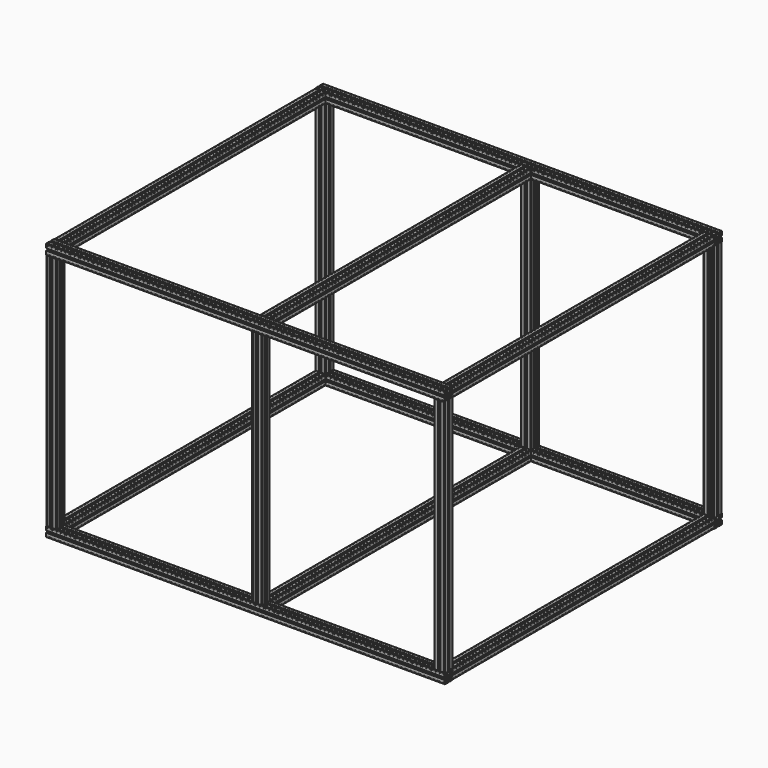
from build123d import *

# Parameters (mm, degrees)
F1_DEPTH  = 770
F7_DEPTH  = 630
F14_DEPTH = 460


with BuildPart() as f1:
    # F0 (on Right) → F1 (new body)
    with BuildSketch(Plane.YZ):
        Polygon((26.443125, -18.825), (25.693125, -18.825), (25.693125, -19.975), (26.376577, -19.975), (27.343125, -20.941548), (27.343125, -21.625), (28.493125, -21.625), (28.493125, -20.875), (28.693125, -20.875), (28.693125, -19.625), (27.693125, -18.625), (26.443125, -18.625), align=None)
        Polygon((25.693125, -19.975), (25.693125, -18.825), (24.943125, -18.825), (24.943125, -18.625), (20.843125, -18.625), (20.843125, -20.125), (22.843125, -20.125), (22.843125, -21.625), (24.043125, -21.625), (24.043125, -20.941548), (25.009673, -19.975), align=None)
        Polygon((26.376577, -23.275), (25.693125, -23.275), (25.693125, -24.475), (27.193125, -24.475), (27.193125, -26.475), (28.693125, -26.475), (28.693125, -22.375), (28.493125, -22.375), (28.493125, -21.625), (27.343125, -21.625), (27.343125, -22.308452), align=None)
        with BuildLine():
            Line((25.693125, -24.475), (25.693125, -23.275))
            Line((25.693125, -23.275), (25.009673, -23.275))
            Line((25.009673, -23.275), (24.043125, -22.308452))
            Line((24.043125, -22.308452), (24.043125, -21.625))
            Line((24.043125, -21.625), (22.843125, -21.625))
            Line((22.843125, -21.625), (22.843125, -24.125))
            Line((22.843125, -24.125), (18.693125, -24.9362781955))
            Line((18.693125, -24.9362781955), (18.693125, -27.025))
            ThreePointArc((18.693125, -27.025), (19.8244958499, -27.4936291501), (20.293125, -28.625))
            Line((20.293125, -28.625), (22.3818468045, -28.625))
            Line((22.3818468045, -28.625), (21.893125, -26.125))
            Line((21.893125, -26.125), (23.193125, -26.125))
            Line((23.193125, -26.125), (23.193125, -24.475))
            Line((23.193125, -24.475), (25.693125, -24.475))
        make_face()
        with BuildLine():
            Line((18.693125, -27.025), (18.693125, -24.9362781955))
            Line((18.693125, -24.9362781955), (16.193125, -25.425))
            Line((16.193125, -25.425), (16.193125, -24.125))
            Line((16.193125, -24.125), (14.543125, -24.125))
            Line((14.543125, -24.125), (14.543125, -21.625))
            Line((14.543125, -21.625), (13.343125, -21.625))
            Line((13.343125, -21.625), (13.343125, -22.308452))
            Line((13.343125, -22.308452), (12.376577, -23.275))
            Line((12.376577, -23.275), (11.693125, -23.275))
            Line((11.693125, -23.275), (11.693125, -24.475))
            Line((11.693125, -24.475), (14.193125, -24.475))
            Line((14.193125, -24.475), (15.0044031955, -28.625))
            Line((15.0044031955, -28.625), (17.093125, -28.625))
            ThreePointArc((17.093125, -28.625), (17.5617541501, -27.4936291501), (18.693125, -27.025))
        make_face()
        with BuildLine():
            Line((23.193125, -32.775), (22.3818468045, -28.625))
            Line((22.3818468045, -28.625), (20.293125, -28.625))
            ThreePointArc((20.293125, -28.625), (19.8244958499, -29.7563708499), (18.693125, -30.225))
            Line((18.693125, -30.225), (18.693125, -32.3137218045))
            Line((18.693125, -32.3137218045), (21.193125, -31.825))
            Line((21.193125, -31.825), (21.193125, -33.125))
            Line((21.193125, -33.125), (22.843125, -33.125))
            Line((22.843125, -33.125), (22.843125, -35.625))
            Line((22.843125, -35.625), (24.043125, -35.625))
            Line((24.043125, -35.625), (24.043125, -34.941548))
            Line((24.043125, -34.941548), (25.009673, -33.975))
            Line((25.009673, -33.975), (25.693125, -33.975))
            Line((25.693125, -33.975), (25.693125, -32.775))
            Line((25.693125, -32.775), (23.193125, -32.775))
        make_face()
        with BuildLine():
            ThreePointArc((18.693125, -30.225), (17.5617541501, -29.7563708499), (17.093125, -28.625))
            Line((17.093125, -28.625), (15.0044031955, -28.625))
            Line((15.0044031955, -28.625), (15.493125, -31.125))
            Line((15.493125, -31.125), (14.193125, -31.125))
            Line((14.193125, -31.125), (14.193125, -32.775))
            Line((14.193125, -32.775), (11.693125, -32.775))
            Line((11.693125, -32.775), (11.693125, -33.975))
            Line((11.693125, -33.975), (12.376577, -33.975))
            Line((12.376577, -33.975), (13.343125, -34.941548))
            Line((13.343125, -34.941548), (13.343125, -35.625))
            Line((13.343125, -35.625), (14.543125, -35.625))
            Line((14.543125, -35.625), (14.543125, -33.125))
            Line((14.543125, -33.125), (18.693125, -32.3137218045))
            Line((18.693125, -32.3137218045), (18.693125, -30.225))
        make_face()
        Polygon((27.193125, -32.775), (25.693125, -32.775), (25.693125, -33.975), (26.376577, -33.975), (27.343125, -34.941548), (27.343125, -35.625), (28.493125, -35.625), (28.493125, -34.875), (28.693125, -34.875), (28.693125, -30.775), (27.193125, -30.775), align=None)
        Polygon((13.343125, -21.625), (14.543125, -21.625), (14.543125, -20.125), (16.543125, -20.125), (16.543125, -18.625), (12.443125, -18.625), (12.443125, -18.825), (11.693125, -18.825), (11.693125, -19.975), (12.376577, -19.975), (13.343125, -20.941548), align=None)
        Polygon((10.193125, -24.475), (11.693125, -24.475), (11.693125, -23.275), (11.009673, -23.275), (10.043125, -22.308452), (10.043125, -21.625), (8.893125, -21.625), (8.893125, -22.375), (8.693125, -22.375), (8.693125, -26.475), (10.193125, -26.475), align=None)
        Polygon((14.543125, -37.125), (14.543125, -35.625), (13.343125, -35.625), (13.343125, -36.308452), (12.376577, -37.275), (11.693125, -37.275), (11.693125, -38.425), (12.443125, -38.425), (12.443125, -38.625), (16.543125, -38.625), (16.543125, -37.125), align=None)
        Polygon((26.376577, -37.275), (25.693125, -37.275), (25.693125, -38.425), (26.443125, -38.425), (26.443125, -38.625), (27.693125, -38.625), (28.693125, -37.625), (28.693125, -36.375), (28.493125, -36.375), (28.493125, -35.625), (27.343125, -35.625), (27.343125, -36.308452), align=None)
        Polygon((25.693125, -38.425), (25.693125, -37.275), (25.009673, -37.275), (24.043125, -36.308452), (24.043125, -35.625), (22.843125, -35.625), (22.843125, -37.125), (20.843125, -37.125), (20.843125, -38.625), (24.943125, -38.625), (24.943125, -38.425), align=None)
        Polygon((11.693125, -33.975), (11.693125, -32.775), (10.193125, -32.775), (10.193125, -30.775), (8.693125, -30.775), (8.693125, -34.875), (8.893125, -34.875), (8.893125, -35.625), (10.043125, -35.625), (10.043125, -34.941548), (11.009673, -33.975), align=None)
        Polygon((11.009673, -19.975), (11.693125, -19.975), (11.693125, -18.825), (10.943125, -18.825), (10.943125, -18.625), (9.693125, -18.625), (8.693125, -19.625), (8.693125, -20.875), (8.893125, -20.875), (8.893125, -21.625), (10.043125, -21.625), (10.043125, -20.941548), align=None)
        Polygon((11.693125, -38.425), (11.693125, -37.275), (11.009673, -37.275), (10.043125, -36.308452), (10.043125, -35.625), (8.893125, -35.625), (8.893125, -36.375), (8.693125, -36.375), (8.693125, -37.625), (9.693125, -38.625), (10.943125, -38.625), (10.943125, -38.425), align=None)
    extrude(amount=-F1_DEPTH)


with BuildPart() as f2_1:
    # F2: copy of F1
    add(f1.part.moved(Location((0, 650, 0))))


with BuildPart() as f3_1:
    # F3: copy of F1
    add(f1.part.moved(Location((0, 0, 480))))


with BuildPart() as f3_2:
    # F3: copy of F2_1
    add(f2_1.part.moved(Location((0, 0, 480))))


with BuildPart() as f7:
    # F6 (on offset) → F7 (new body)
    with BuildSketch(Plane.XZ.offset(-658.7)):
        with BuildLine():
            Line((23.193125, -32.775), (22.3818468045, -28.625))
            Line((22.3818468045, -28.625), (20.293125, -28.625))
            ThreePointArc((20.293125, -28.625), (19.8244958499, -29.7563708499), (18.693125, -30.225))
            Line((18.693125, -30.225), (18.693125, -32.3137218045))
            Line((18.693125, -32.3137218045), (21.193125, -31.825))
            Line((21.193125, -31.825), (21.193125, -33.125))
            Line((21.193125, -33.125), (22.843125, -33.125))
            Line((22.843125, -33.125), (22.843125, -35.625))
            Line((22.843125, -35.625), (24.043125, -35.625))
            Line((24.043125, -35.625), (24.043125, -34.941548))
            Line((24.043125, -34.941548), (25.009673, -33.975))
            Line((25.009673, -33.975), (25.693125, -33.975))
            Line((25.693125, -33.975), (25.693125, -32.775))
            Line((25.693125, -32.775), (23.193125, -32.775))
        make_face()
        with BuildLine():
            Line((18.693125, -27.025), (18.693125, -24.9362781955))
            Line((18.693125, -24.9362781955), (16.193125, -25.425))
            Line((16.193125, -25.425), (16.193125, -24.125))
            Line((16.193125, -24.125), (14.543125, -24.125))
            Line((14.543125, -24.125), (14.543125, -21.625))
            Line((14.543125, -21.625), (13.343125, -21.625))
            Line((13.343125, -21.625), (13.343125, -22.308452))
            Line((13.343125, -22.308452), (12.376577, -23.275))
            Line((12.376577, -23.275), (11.693125, -23.275))
            Line((11.693125, -23.275), (11.693125, -24.475))
            Line((11.693125, -24.475), (14.193125, -24.475))
            Line((14.193125, -24.475), (15.0044031955, -28.625))
            Line((15.0044031955, -28.625), (17.093125, -28.625))
            ThreePointArc((17.093125, -28.625), (17.5617541501, -27.4936291501), (18.693125, -27.025))
        make_face()
        with BuildLine():
            ThreePointArc((18.693125, -30.225), (17.5617541501, -29.7563708499), (17.093125, -28.625))
            Line((17.093125, -28.625), (15.0044031955, -28.625))
            Line((15.0044031955, -28.625), (15.493125, -31.125))
            Line((15.493125, -31.125), (14.193125, -31.125))
            Line((14.193125, -31.125), (14.193125, -32.775))
            Line((14.193125, -32.775), (11.693125, -32.775))
            Line((11.693125, -32.775), (11.693125, -33.975))
            Line((11.693125, -33.975), (12.376577, -33.975))
            Line((12.376577, -33.975), (13.343125, -34.941548))
            Line((13.343125, -34.941548), (13.343125, -35.625))
            Line((13.343125, -35.625), (14.543125, -35.625))
            Line((14.543125, -35.625), (14.543125, -33.125))
            Line((14.543125, -33.125), (18.693125, -32.3137218045))
            Line((18.693125, -32.3137218045), (18.693125, -30.225))
        make_face()
        with BuildLine():
            Line((25.693125, -24.475), (25.693125, -23.275))
            Line((25.693125, -23.275), (25.009673, -23.275))
            Line((25.009673, -23.275), (24.043125, -22.308452))
            Line((24.043125, -22.308452), (24.043125, -21.625))
            Line((24.043125, -21.625), (22.843125, -21.625))
            Line((22.843125, -21.625), (22.843125, -24.125))
            Line((22.843125, -24.125), (18.693125, -24.9362781955))
            Line((18.693125, -24.9362781955), (18.693125, -27.025))
            ThreePointArc((18.693125, -27.025), (19.8244958499, -27.4936291501), (20.293125, -28.625))
            Line((20.293125, -28.625), (22.3818468045, -28.625))
            Line((22.3818468045, -28.625), (21.893125, -26.125))
            Line((21.893125, -26.125), (23.193125, -26.125))
            Line((23.193125, -26.125), (23.193125, -24.475))
            Line((23.193125, -24.475), (25.693125, -24.475))
        make_face()
        with BuildLine():
            Line((18.693125, -30.225), (18.693125, -28.625))
            Line((18.693125, -28.625), (17.093125, -28.625))
            ThreePointArc((17.093125, -28.625), (17.5617541501, -29.7563708499), (18.693125, -30.225))
        make_face()
        with BuildLine():
            ThreePointArc((20.293125, -28.625), (19.8244958499, -27.4936291501), (18.693125, -27.025))
            Line((18.693125, -27.025), (18.693125, -28.625))
            Line((18.693125, -28.625), (20.293125, -28.625))
        make_face()
        with BuildLine():
            Line((18.693125, -28.625), (18.693125, -27.025))
            ThreePointArc((18.693125, -27.025), (17.5617541501, -27.4936291501), (17.093125, -28.625))
            Line((17.093125, -28.625), (18.693125, -28.625))
        make_face()
        with BuildLine():
            Line((20.293125, -28.625), (18.693125, -28.625))
            Line((18.693125, -28.625), (18.693125, -30.225))
            ThreePointArc((18.693125, -30.225), (19.8244958499, -29.7563708499), (20.293125, -28.625))
        make_face()
        Polygon((13.343125, -21.625), (14.543125, -21.625), (14.543125, -20.125), (16.543125, -20.125), (16.543125, -18.625), (12.443125, -18.625), (12.443125, -18.825), (11.693125, -18.825), (11.693125, -19.975), (12.376577, -19.975), (13.343125, -20.941548), align=None)
        Polygon((25.693125, -19.975), (25.693125, -18.825), (24.943125, -18.825), (24.943125, -18.625), (20.843125, -18.625), (20.843125, -20.125), (22.843125, -20.125), (22.843125, -21.625), (24.043125, -21.625), (24.043125, -20.941548), (25.009673, -19.975), align=None)
        Polygon((11.009673, -23.275), (11.693125, -23.275), (11.693125, -21.625), (10.043125, -21.625), (10.043125, -22.308452), align=None)
        Polygon((11.693125, -33.975), (11.693125, -32.775), (10.193125, -32.775), (10.193125, -30.775), (8.693125, -30.775), (8.693125, -34.875), (8.893125, -34.875), (8.893125, -35.625), (10.043125, -35.625), (10.043125, -34.941548), (11.009673, -33.975), align=None)
        Polygon((10.193125, -24.475), (11.693125, -24.475), (11.693125, -23.275), (11.009673, -23.275), (10.043125, -22.308452), (10.043125, -21.625), (8.893125, -21.625), (8.893125, -22.375), (8.693125, -22.375), (8.693125, -26.475), (10.193125, -26.475), align=None)
        Polygon((14.543125, -37.125), (14.543125, -35.625), (13.343125, -35.625), (13.343125, -36.308452), (12.376577, -37.275), (11.693125, -37.275), (11.693125, -38.425), (12.443125, -38.425), (12.443125, -38.625), (16.543125, -38.625), (16.543125, -37.125), align=None)
        Polygon((27.193125, -32.775), (25.693125, -32.775), (25.693125, -33.975), (26.376577, -33.975), (27.343125, -34.941548), (27.343125, -35.625), (28.493125, -35.625), (28.493125, -34.875), (28.693125, -34.875), (28.693125, -30.775), (27.193125, -30.775), align=None)
        Polygon((25.693125, -21.625), (25.693125, -19.975), (25.009673, -19.975), (24.043125, -20.941548), (24.043125, -21.625), align=None)
        Polygon((26.376577, -19.975), (25.693125, -19.975), (25.693125, -21.625), (27.343125, -21.625), (27.343125, -20.941548), align=None)
        Polygon((25.693125, -38.425), (25.693125, -37.275), (25.009673, -37.275), (24.043125, -36.308452), (24.043125, -35.625), (22.843125, -35.625), (22.843125, -37.125), (20.843125, -37.125), (20.843125, -38.625), (24.943125, -38.625), (24.943125, -38.425), align=None)
        Polygon((11.693125, -35.625), (13.343125, -35.625), (13.343125, -34.941548), (12.376577, -33.975), (11.693125, -33.975), align=None)
        Polygon((10.043125, -21.625), (11.693125, -21.625), (11.693125, -19.975), (11.009673, -19.975), (10.043125, -20.941548), align=None)
        Polygon((13.343125, -22.308452), (13.343125, -21.625), (11.693125, -21.625), (11.693125, -23.275), (12.376577, -23.275), align=None)
        Polygon((11.009673, -19.975), (11.693125, -19.975), (11.693125, -18.825), (10.943125, -18.825), (10.943125, -18.625), (9.693125, -18.625), (8.693125, -19.625), (8.693125, -20.875), (8.893125, -20.875), (8.893125, -21.625), (10.043125, -21.625), (10.043125, -20.941548), align=None)
        Polygon((11.693125, -21.625), (13.343125, -21.625), (13.343125, -20.941548), (12.376577, -19.975), (11.693125, -19.975), align=None)
        Polygon((25.693125, -23.275), (25.693125, -21.625), (24.043125, -21.625), (24.043125, -22.308452), (25.009673, -23.275), align=None)
        Polygon((27.343125, -21.625), (25.693125, -21.625), (25.693125, -23.275), (26.376577, -23.275), (27.343125, -22.308452), align=None)
        Polygon((26.376577, -23.275), (25.693125, -23.275), (25.693125, -24.475), (27.193125, -24.475), (27.193125, -26.475), (28.693125, -26.475), (28.693125, -22.375), (28.493125, -22.375), (28.493125, -21.625), (27.343125, -21.625), (27.343125, -22.308452), align=None)
        Polygon((25.693125, -37.275), (25.693125, -35.625), (24.043125, -35.625), (24.043125, -36.308452), (25.009673, -37.275), align=None)
        Polygon((27.343125, -35.625), (25.693125, -35.625), (25.693125, -37.275), (26.376577, -37.275), (27.343125, -36.308452), align=None)
        Polygon((25.693125, -35.625), (25.693125, -33.975), (25.009673, -33.975), (24.043125, -34.941548), (24.043125, -35.625), align=None)
        Polygon((26.376577, -33.975), (25.693125, -33.975), (25.693125, -35.625), (27.343125, -35.625), (27.343125, -34.941548), align=None)
        Polygon((11.693125, -38.425), (11.693125, -37.275), (11.009673, -37.275), (10.043125, -36.308452), (10.043125, -35.625), (8.893125, -35.625), (8.893125, -36.375), (8.693125, -36.375), (8.693125, -37.625), (9.693125, -38.625), (10.943125, -38.625), (10.943125, -38.425), align=None)
        Polygon((13.343125, -36.308452), (13.343125, -35.625), (11.693125, -35.625), (11.693125, -37.275), (12.376577, -37.275), align=None)
        Polygon((10.043125, -35.625), (11.693125, -35.625), (11.693125, -33.975), (11.009673, -33.975), (10.043125, -34.941548), align=None)
        Polygon((11.693125, -37.275), (11.693125, -35.625), (10.043125, -35.625), (10.043125, -36.308452), (11.009673, -37.275), align=None)
        Polygon((26.443125, -18.825), (25.693125, -18.825), (25.693125, -19.975), (26.376577, -19.975), (27.343125, -20.941548), (27.343125, -21.625), (28.493125, -21.625), (28.493125, -20.875), (28.693125, -20.875), (28.693125, -19.625), (27.693125, -18.625), (26.443125, -18.625), align=None)
        Polygon((26.376577, -37.275), (25.693125, -37.275), (25.693125, -38.425), (26.443125, -38.425), (26.443125, -38.625), (27.693125, -38.625), (28.693125, -37.625), (28.693125, -36.375), (28.493125, -36.375), (28.493125, -35.625), (27.343125, -35.625), (27.343125, -36.308452), align=None)
    extrude(amount=F7_DEPTH)


with BuildPart() as f7_1:
    # F8: moved
    add(f7.part.moved(Location((-28.7, 0, 0))))


with BuildPart() as f9_1:
    # F9: copy of F7
    add(f7_1.part.moved(Location((0, 0, 480))))


with BuildPart() as f10_1:
    # F10: copy of F9_1
    add(f9_1.part.moved(Location((-750, 0, 0))))


with BuildPart() as f10_2:
    # F10: copy of F7
    add(f7_1.part.moved(Location((-750, 0, 0))))


with BuildPart() as f11_1:
    # F11: copy of F7
    add(f7_1.part.moved(Location((-353, 0, 0))))


with BuildPart() as f11_2:
    # F11: copy of F9_1
    add(f9_1.part.moved(Location((-353, 0, 0))))


with BuildPart() as f14:
    # F13 (on offset) → F14 (new body)
    with BuildSketch(Plane.XY.offset(-18.6)):
        Polygon((26.443125, -18.825), (25.693125, -18.825), (25.693125, -19.975), (26.376577, -19.975), (27.343125, -20.941548), (27.343125, -21.625), (28.493125, -21.625), (28.493125, -20.875), (28.693125, -20.875), (28.693125, -19.625), (27.693125, -18.625), (26.443125, -18.625), align=None)
        Polygon((25.693125, -19.975), (25.693125, -18.825), (24.943125, -18.825), (24.943125, -18.625), (20.843125, -18.625), (20.843125, -20.125), (22.843125, -20.125), (22.843125, -21.625), (24.043125, -21.625), (24.043125, -20.941548), (25.009673, -19.975), align=None)
        Polygon((26.376577, -23.275), (25.693125, -23.275), (25.693125, -24.475), (27.193125, -24.475), (27.193125, -26.475), (28.693125, -26.475), (28.693125, -22.375), (28.493125, -22.375), (28.493125, -21.625), (27.343125, -21.625), (27.343125, -22.308452), align=None)
        with BuildLine():
            Line((25.693125, -24.475), (25.693125, -23.275))
            Line((25.693125, -23.275), (25.009673, -23.275))
            Line((25.009673, -23.275), (24.043125, -22.308452))
            Line((24.043125, -22.308452), (24.043125, -21.625))
            Line((24.043125, -21.625), (22.843125, -21.625))
            Line((22.843125, -21.625), (22.843125, -24.125))
            Line((22.843125, -24.125), (18.693125, -24.9362781955))
            Line((18.693125, -24.9362781955), (18.693125, -27.025))
            ThreePointArc((18.693125, -27.025), (19.8244958499, -27.4936291501), (20.293125, -28.625))
            Line((20.293125, -28.625), (22.3818468045, -28.625))
            Line((22.3818468045, -28.625), (21.893125, -26.125))
            Line((21.893125, -26.125), (23.193125, -26.125))
            Line((23.193125, -26.125), (23.193125, -24.475))
            Line((23.193125, -24.475), (25.693125, -24.475))
        make_face()
        with BuildLine():
            Line((18.693125, -27.025), (18.693125, -24.9362781955))
            Line((18.693125, -24.9362781955), (16.193125, -25.425))
            Line((16.193125, -25.425), (16.193125, -24.125))
            Line((16.193125, -24.125), (14.543125, -24.125))
            Line((14.543125, -24.125), (14.543125, -21.625))
            Line((14.543125, -21.625), (13.343125, -21.625))
            Line((13.343125, -21.625), (13.343125, -22.308452))
            Line((13.343125, -22.308452), (12.376577, -23.275))
            Line((12.376577, -23.275), (11.693125, -23.275))
            Line((11.693125, -23.275), (11.693125, -24.475))
            Line((11.693125, -24.475), (14.193125, -24.475))
            Line((14.193125, -24.475), (15.0044031955, -28.625))
            Line((15.0044031955, -28.625), (17.093125, -28.625))
            ThreePointArc((17.093125, -28.625), (17.5617541501, -27.4936291501), (18.693125, -27.025))
        make_face()
        with BuildLine():
            Line((23.193125, -32.775), (22.3818468045, -28.625))
            Line((22.3818468045, -28.625), (20.293125, -28.625))
            ThreePointArc((20.293125, -28.625), (19.8244958499, -29.7563708499), (18.693125, -30.225))
            Line((18.693125, -30.225), (18.693125, -32.3137218045))
            Line((18.693125, -32.3137218045), (21.193125, -31.825))
            Line((21.193125, -31.825), (21.193125, -33.125))
            Line((21.193125, -33.125), (22.843125, -33.125))
            Line((22.843125, -33.125), (22.843125, -35.625))
            Line((22.843125, -35.625), (24.043125, -35.625))
            Line((24.043125, -35.625), (24.043125, -34.941548))
            Line((24.043125, -34.941548), (25.009673, -33.975))
            Line((25.009673, -33.975), (25.693125, -33.975))
            Line((25.693125, -33.975), (25.693125, -32.775))
            Line((25.693125, -32.775), (23.193125, -32.775))
        make_face()
        with BuildLine():
            ThreePointArc((18.693125, -30.225), (17.5617541501, -29.7563708499), (17.093125, -28.625))
            Line((17.093125, -28.625), (15.0044031955, -28.625))
            Line((15.0044031955, -28.625), (15.493125, -31.125))
            Line((15.493125, -31.125), (14.193125, -31.125))
            Line((14.193125, -31.125), (14.193125, -32.775))
            Line((14.193125, -32.775), (11.693125, -32.775))
            Line((11.693125, -32.775), (11.693125, -33.975))
            Line((11.693125, -33.975), (12.376577, -33.975))
            Line((12.376577, -33.975), (13.343125, -34.941548))
            Line((13.343125, -34.941548), (13.343125, -35.625))
            Line((13.343125, -35.625), (14.543125, -35.625))
            Line((14.543125, -35.625), (14.543125, -33.125))
            Line((14.543125, -33.125), (18.693125, -32.3137218045))
            Line((18.693125, -32.3137218045), (18.693125, -30.225))
        make_face()
        Polygon((27.193125, -32.775), (25.693125, -32.775), (25.693125, -33.975), (26.376577, -33.975), (27.343125, -34.941548), (27.343125, -35.625), (28.493125, -35.625), (28.493125, -34.875), (28.693125, -34.875), (28.693125, -30.775), (27.193125, -30.775), align=None)
        Polygon((13.343125, -21.625), (14.543125, -21.625), (14.543125, -20.125), (16.543125, -20.125), (16.543125, -18.625), (12.443125, -18.625), (12.443125, -18.825), (11.693125, -18.825), (11.693125, -19.975), (12.376577, -19.975), (13.343125, -20.941548), align=None)
        Polygon((10.193125, -24.475), (11.693125, -24.475), (11.693125, -23.275), (11.009673, -23.275), (10.043125, -22.308452), (10.043125, -21.625), (8.893125, -21.625), (8.893125, -22.375), (8.693125, -22.375), (8.693125, -26.475), (10.193125, -26.475), align=None)
        Polygon((14.543125, -37.125), (14.543125, -35.625), (13.343125, -35.625), (13.343125, -36.308452), (12.376577, -37.275), (11.693125, -37.275), (11.693125, -38.425), (12.443125, -38.425), (12.443125, -38.625), (16.543125, -38.625), (16.543125, -37.125), align=None)
        Polygon((26.376577, -37.275), (25.693125, -37.275), (25.693125, -38.425), (26.443125, -38.425), (26.443125, -38.625), (27.693125, -38.625), (28.693125, -37.625), (28.693125, -36.375), (28.493125, -36.375), (28.493125, -35.625), (27.343125, -35.625), (27.343125, -36.308452), align=None)
        Polygon((25.693125, -38.425), (25.693125, -37.275), (25.009673, -37.275), (24.043125, -36.308452), (24.043125, -35.625), (22.843125, -35.625), (22.843125, -37.125), (20.843125, -37.125), (20.843125, -38.625), (24.943125, -38.625), (24.943125, -38.425), align=None)
        Polygon((11.693125, -33.975), (11.693125, -32.775), (10.193125, -32.775), (10.193125, -30.775), (8.693125, -30.775), (8.693125, -34.875), (8.893125, -34.875), (8.893125, -35.625), (10.043125, -35.625), (10.043125, -34.941548), (11.009673, -33.975), align=None)
        Polygon((11.009673, -19.975), (11.693125, -19.975), (11.693125, -18.825), (10.943125, -18.825), (10.943125, -18.625), (9.693125, -18.625), (8.693125, -19.625), (8.693125, -20.875), (8.893125, -20.875), (8.893125, -21.625), (10.043125, -21.625), (10.043125, -20.941548), align=None)
        Polygon((11.693125, -38.425), (11.693125, -37.275), (11.009673, -37.275), (10.043125, -36.308452), (10.043125, -35.625), (8.893125, -35.625), (8.893125, -36.375), (8.693125, -36.375), (8.693125, -37.625), (9.693125, -38.625), (10.943125, -38.625), (10.943125, -38.425), align=None)
    extrude(amount=F14_DEPTH)


with BuildPart() as f14_1:
    # F15: moved
    add(f14.part.moved(Location((-28.7, 47.3, 0))))


with BuildPart() as f16_1:
    # F16: copy of F14
    add(f14_1.part.moved(Location((0, 650, 0))))


with BuildPart() as f17_1:
    # F17: copy of F14
    add(f14_1.part.moved(Location((-750, 0, 0))))


with BuildPart() as f17_2:
    # F17: copy of F16_1
    add(f16_1.part.moved(Location((-750, 0, 0))))


with BuildPart() as f18_1:
    # F18: copy of F14
    add(f14_1.part.moved(Location((-353, 0, 0))))


with BuildPart() as f18_2:
    # F18: copy of F16_1
    add(f16_1.part.moved(Location((-353, 0, 0))))


solid = Compound([f1.part, f2_1.part, f3_1.part, f3_2.part, f7_1.part, f9_1.part, f10_1.part, f10_2.part, f11_1.part, f11_2.part, f14_1.part, f16_1.part, f17_1.part, f17_2.part, f18_1.part, f18_2.part])
